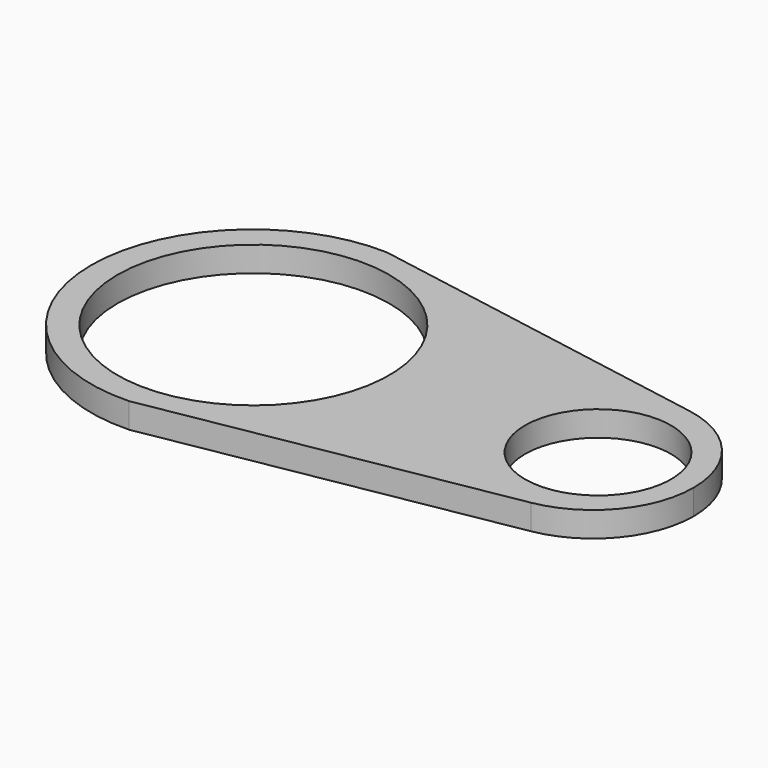
from build123d import *

# Parameters (mm, degrees)
F1_DEPTH = 6.35


with BuildPart() as f1:
    # F0 (on Top) → F1 (new body)
    with BuildSketch(Plane.XY):
        with BuildLine():
            Line((68.533818, 0), (34.29, 0))
            ThreePointArc((34.29, 0), (0, -34.29), (-34.29, 0))
            Line((-34.29, 0), (-40.902383, 0))
            ThreePointArc((-40.902383, 0), (-28.488903, -29.248604), (1.172713, -40.64))
            Line((1.172713, -40.64), (90.072713, -25.019))
            ThreePointArc((90.072713, -25.019), (105.130956, -16.334066), (111.078818, 0))
            Line((111.078818, 0), (105.363818, 0))
            ThreePointArc((105.363818, 0), (86.948818, -18.415), (68.533818, 0))
        make_face()
        with BuildLine():
            ThreePointArc((-34.29, 0), (0, 34.29), (34.29, 0))
            Line((34.29, 0), (68.533818, 0))
            ThreePointArc((68.533818, 0), (86.948818, 18.415), (105.363818, 0))
            Line((105.363818, 0), (111.078818, 0))
            ThreePointArc((111.078818, 0), (105.130956, 16.334066), (90.072713, 25.019))
            Line((90.072713, 25.019), (1.172713, 40.64))
            ThreePointArc((1.172713, 40.64), (-28.488903, 29.248604), (-40.902383, 0))
            Line((-40.902383, 0), (-34.29, 0))
        make_face()
    extrude(amount=F1_DEPTH)


solid = f1.part
